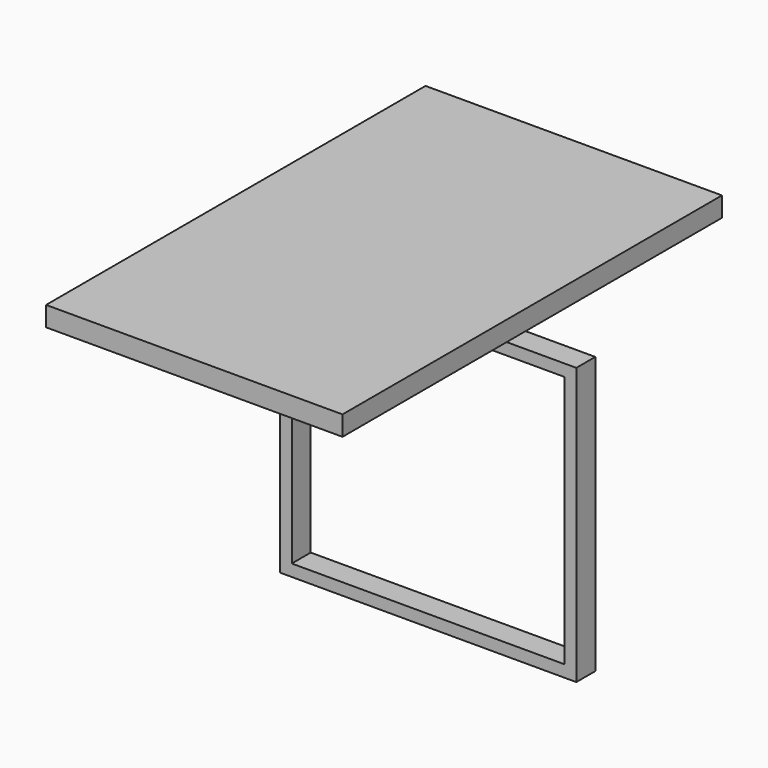
from build123d import *

# Parameters (mm, degrees)
F0_W     = 750
F0_H     = 700
F0_W_2   = 690
F0_H_2   = 640
F1_DEPTH = 60
F2_W     = 750
F2_H     = 1200
F3_DEPTH = 50


with BuildPart() as f1:
    # F0 (on Front) → F1 (new body)
    with BuildSketch(Plane.XZ):
        with Locations((0, -350)):
            Rectangle(F0_W, F0_H)
        with Locations((0, -350)):
            Rectangle(F0_W_2, F0_H_2, mode=Mode.SUBTRACT)
    extrude(amount=F1_DEPTH)


with BuildPart() as f3:
    # F2 (on Top) → F3 (new body)
    with BuildSketch(Plane.XY):
        with Locations((-176.282793, 20.86416)):
            Rectangle(F2_W, F2_H)
    extrude(amount=F3_DEPTH)


solid = Compound([f1.part, f3.part])
